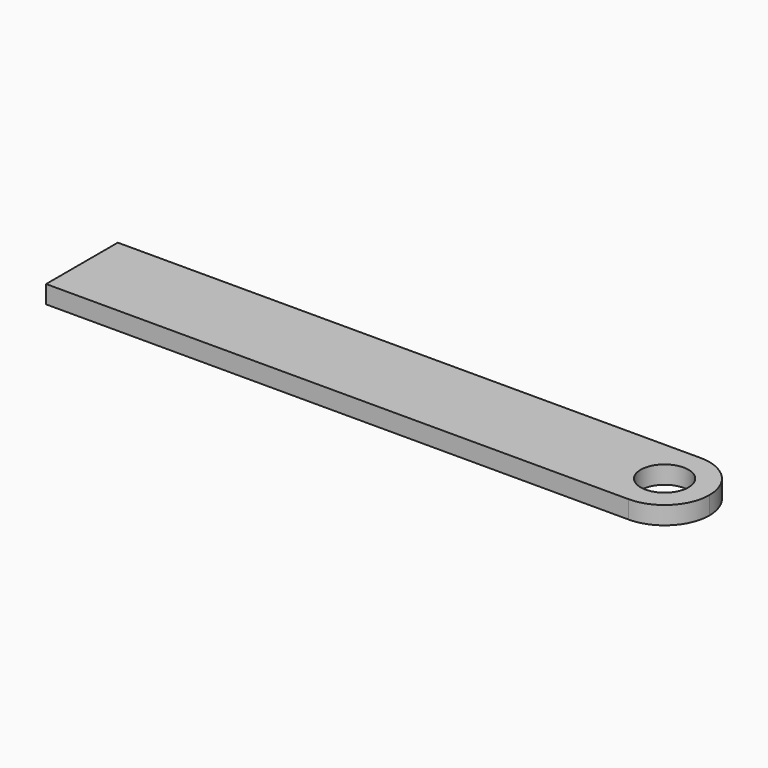
from build123d import *

# Parameters (mm, degrees)
F0_R     = 4
F1_DEPTH = 3


with BuildPart() as f1:
    # F0 (on Top) → F1 (new body)
    with BuildSketch(Plane.XY):
        with BuildLine():
            Line((85, 7.5), (12.5, 7.5))
            Line((12.5, 7.5), (-12.5, 7.5))
            Line((-12.5, 7.5), (-12.5, -7.5))
            Line((-12.5, -7.5), (12.5, -7.5))
            Line((12.5, -7.5), (85, -7.5))
            ThreePointArc((85, -7.5), (90.303301, -5.303301), (92.5, 0))
            ThreePointArc((92.5, 0), (90.303301, 5.303301), (85, 7.5))
        make_face()
        with Locations((85, 0)):
            Circle(F0_R, mode=Mode.SUBTRACT)
    extrude(amount=F1_DEPTH)


solid = f1.part
